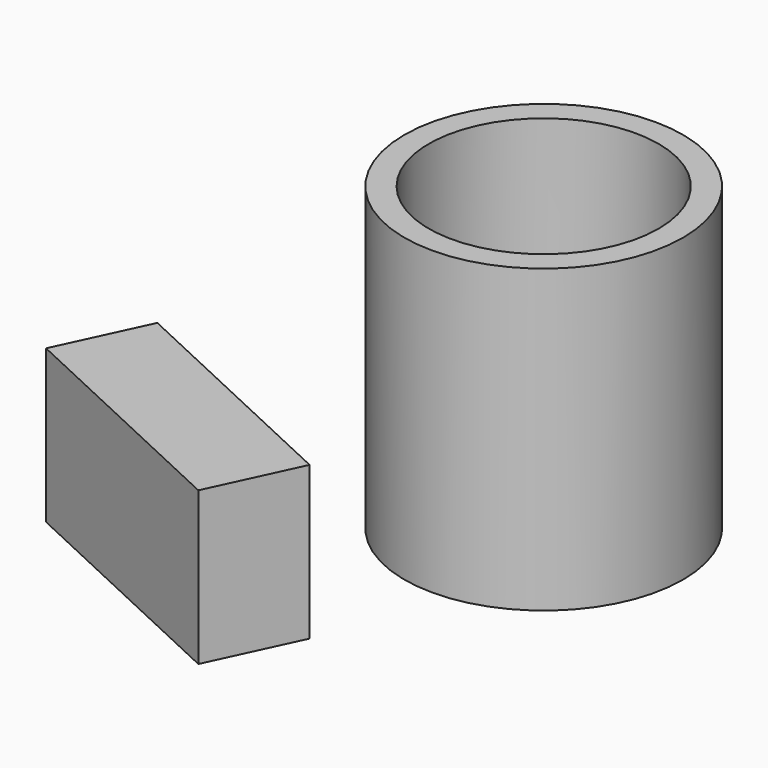
from build123d import *

# Parameters (mm, degrees)
F0_R     = 23.137846
F0_R_2   = 19.085386
F1_DEPTH = 50
F2_DEPTH = 5
F4_W     = 44.501221
F4_H     = 16.099923
F5_DEPTH = 25.4
F6_ANGLE = 155


with BuildPart() as f1:
    # F0 (on Top) → F1 (new body)
    with BuildSketch(Plane.XY):
        with Locations((-53.2768, 39.057016)):
            Circle(F0_R)
        with Locations((-53.2768, 39.057016)):
            Circle(F0_R_2, mode=Mode.SUBTRACT)
    extrude(amount=F1_DEPTH)

    # F0 (on Top) → F2 (join)
    with BuildSketch(Plane.XY):
        with Locations((-53.2768, 39.057016)):
            Circle(F0_R_2)
    extrude(amount=F2_DEPTH)


with BuildPart() as f1_1:
    # F3: moved
    add(f1.part.moved(Location((19.812, -32.512, 0))))


with BuildPart() as f5:
    # F4 (on Top) → F5 (new body)
    with BuildSketch(Plane.XY):
        with Locations((-25.519051, 55.55598)):
            Rectangle(F4_W, F4_H)
    extrude(amount=F5_DEPTH)


with BuildPart() as f5_1:
    # F6: moved
    add(f5.part.rotate(Axis((-33.4648, 6.545016, 50), (0, 0, 1)), F6_ANGLE))


solid = Compound([f1_1.part, f5_1.part])
